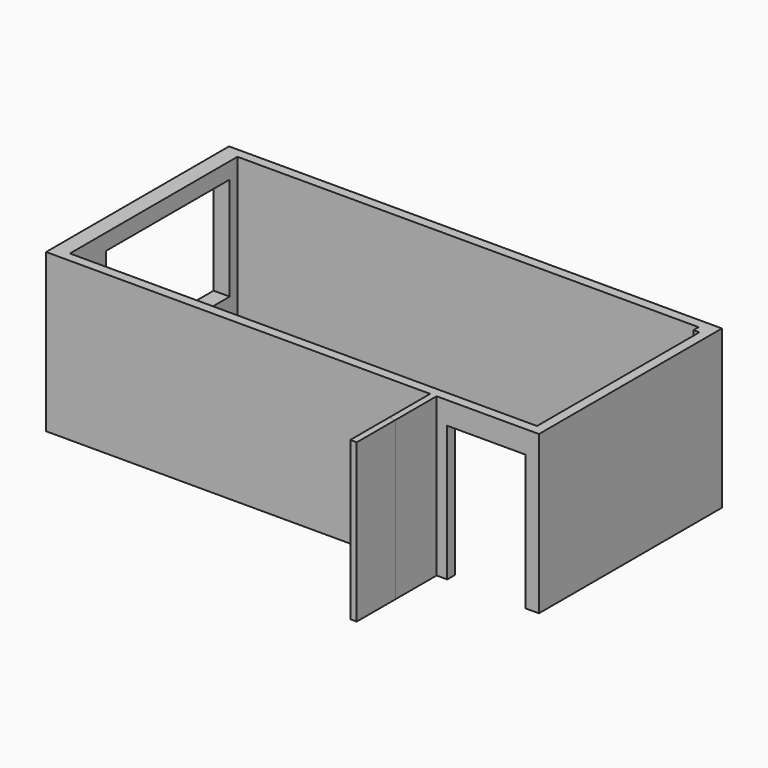
from build123d import *

# Parameters (mm, degrees)
F0_W      = 7550
F0_H      = 3550
F0_W_2    = 7250
F0_H_2    = 3250
F1_DEPTH  = 2450
F2_W      = 1211.3902568817
F2_H      = 2100.6481647491
F3_DEPTH  = 150
F4_W      = 2400
F4_H      = 1600
F5_DEPTH  = 150
F6_DEPTH  = 100
F7_W      = 92.7624866187
F7_H      = 2450
F8_DEPTH  = 100
F9_W      = 100
F9_H      = 2450
F10_DEPTH = 800
F11_DEPTH = 750


with BuildPart() as f1:
    # F0 (on Top) → F1 (new body)
    with BuildSketch(Plane.XY):
        with Locations((196.5246364295, -10.5402395129)):
            Rectangle(F0_W, F0_H)
        with Locations((196.5246364295, -10.5402395129)):
            Rectangle(F0_W_2, F0_H_2, mode=Mode.SUBTRACT)
    extrude(amount=F1_DEPTH)

    # F2 (on face) → F3 (cut)
    with BuildSketch(Plane.XZ.offset(1785.5402395129)):
        with Locations((3153.4074544907, 1050.3240823746)):
            Rectangle(F2_W, F2_H)
    extrude(amount=-F3_DEPTH, mode=Mode.SUBTRACT)

    # F4 (on face) → F5 (cut)
    with BuildSketch(Plane(origin=(-3578.4753635705, 0, 0), x_dir=(0, -1, 0), z_dir=(-1, 0, 0))):
        with Locations((-264.4597604871, 1400)):
            Rectangle(F4_W, F4_H)
    extrude(amount=-F5_DEPTH, mode=Mode.SUBTRACT)

    # F6 (add): a face of the model
    f6_faces = [f1.faces().sort_by_distance(p)[0] for p in [
        (-3578.4753635705, 1721.3262468347, 1225),
    ]]
    extrude(f6_faces, amount=F6_DEPTH)

    # F7 (on face) → F8 (join)
    with BuildSketch(Plane.XZ.offset(-1614.4597604871)):
        with Locations((3775.1433931202, 1225)):
            Rectangle(F7_W, F7_H)
    extrude(amount=F8_DEPTH)

    # F9 (on face) → F10 (join)
    with BuildSketch(Plane.XZ.offset(1785.5402395129)):
        with Locations((2332.8089237213, 1225)):
            Rectangle(F9_W, F9_H)
    extrude(amount=F10_DEPTH)


with BuildPart() as f11:
    # F11 (new): a face of the model
    f11_faces = [f1.part.faces().sort_by_distance(p)[0] for p in [
        (2332.8089237213, -2585.5402395129, 1225),
    ]]
    extrude(f11_faces, amount=F11_DEPTH)


solid = Compound([f1.part, f11.part])
